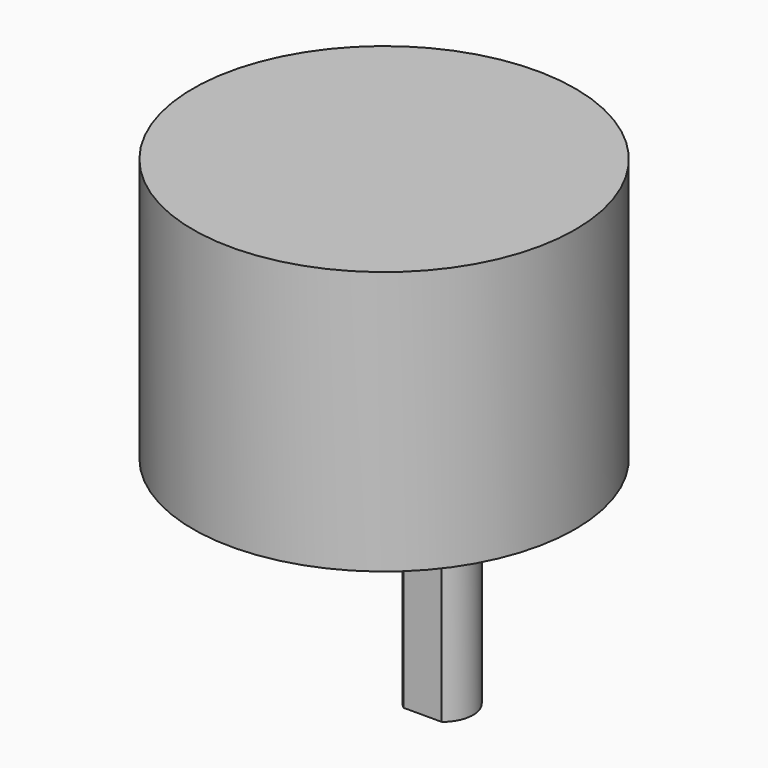
from build123d import *

# Parameters (mm, degrees)
F0_R     = 18.415
F3_DEPTH = 25.4
F1_R     = 1.4986
F4_DEPTH = 6.35
F5_DEPTH = 7.62
F7_DEPTH = 16.002


with BuildPart() as f3:
    # F0 (on Top) → F3 (new body)
    with BuildSketch(Plane.XY):
        Circle(F0_R)
    extrude(amount=F3_DEPTH)

    # F1 (on Top) → F4 (cut)
    with BuildSketch(Plane.XY):
        with Locations((-15.24, 0)):
            Circle(F1_R)
        with Locations((-7.62, -13.198227)):
            Circle(F1_R)
        with Locations((7.62, -13.198227)):
            Circle(F1_R)
        with BuildLine():
            ThreePointArc((13.7414, 0), (15.24, -1.4986), (16.7386, 0))
            ThreePointArc((16.7386, 0), (15.24, 1.4986), (13.7414, 0))
        make_face()
        with Locations((7.62, 13.198227)):
            Circle(F1_R)
        with Locations((-7.62, 13.198227)):
            Circle(F1_R)
    extrude(amount=F4_DEPTH, mode=Mode.SUBTRACT)

    # F2 (on Top) → F5 (join)
    with BuildSketch(Plane.XY):
        with BuildLine():
            ThreePointArc((0, 0.9906), (4.238681, 2.746319), (5.9944, 6.985))
            ThreePointArc((5.9944, 6.985), (-4.238681, 11.223681), (0, 0.9906))
        make_face()
    extrude(amount=-F5_DEPTH)

    # F6 (on face) → F7 (join)
    with BuildSketch(Plane(origin=(0, 0, -7.62), x_dir=(1, 0, 0), z_dir=(0, 0, -1))):
        with BuildLine():
            Line((1.840405, -4.6355), (0, -4.6355))
            Line((0, -4.6355), (-1.840405, -4.6355))
            ThreePointArc((-1.840405, -4.6355), (0, -9.9695), (1.840405, -4.6355))
        make_face()
    extrude(amount=F7_DEPTH)


solid = f3.part
